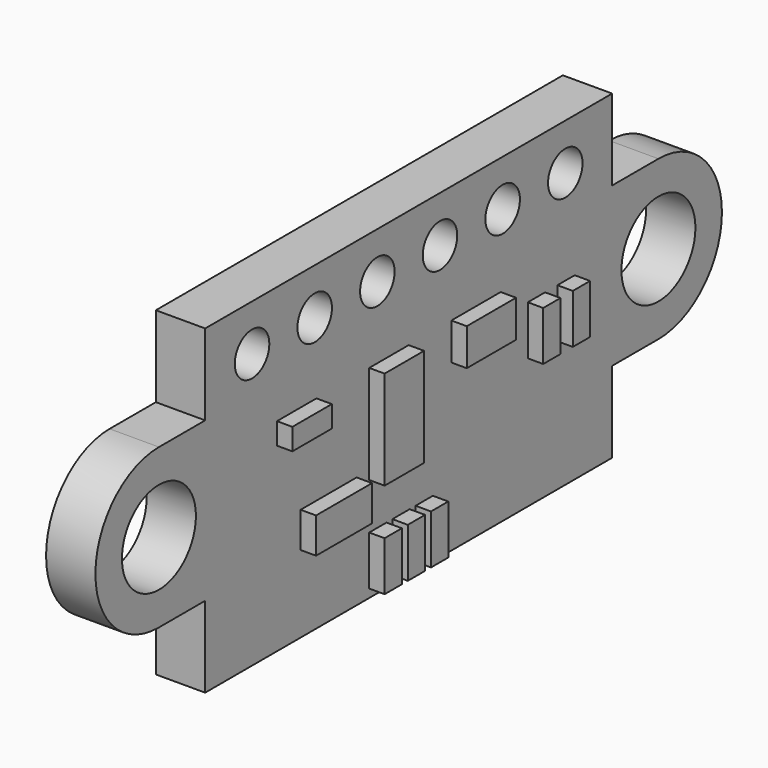
from build123d import *

# Parameters (mm, degrees)
PAD049_DEPTH            = 1.6
SKETCH125_R             = 1.5
POCKET062_DEPTH         = 1.6
SKETCH126_W             = 4.4
SKETCH126_H             = 2.35
PAD050_DEPTH            = 1
SKETCH127_W             = 2.27
SKETCH127_H             = 1.15
SKETCH127_W_2           = 1.6
SKETCH127_H_2           = 3.2
SKETCH127_W_3           = 2
SKETCH127_H_3           = 1.2
SKETCH127_W_4           = 0.7
SKETCH127_H_4           = 1.6
SKETCH127_H_5           = 0.7
PAD051_DEPTH            = 0.5
SKETCH128_R             = 0.7
POCKET063_DEPTH         = 1.6
BODY030_ROLL_ANGLE      = -180
BODY030_PLACEMENT_ANGLE = 90


with BuildPart() as part:
    # Sketch124 → Pad049 (new body)
    with BuildSketch(Plane.XZ):
        Polygon((-8.25, -5.2), (8.25, -5.2), (8.25, -2.575), (12.75, -2.575), (12.75, 2.575), (8.25, 2.575), (8.25, 5.2), (-8.25, 5.2), (-8.25, 2.575), (-12.75, 2.575), (-12.75, -2.575), (-8.25, -2.575), align=None)
    extrude(amount=PAD049_DEPTH)

    # Sketch125 (on Face14 of Pad049) → Pocket062 (cut)
    with BuildSketch(Plane.XZ.offset(1.6)):
        with Locations((-10.125, 0)):
            Circle(SKETCH125_R)
        with Locations((10.125, 0)):
            Circle(SKETCH125_R)
        with BuildLine():
            Line((-12.755, 2.575), (-12.755, -2.575))
            Line((-12.755, -2.575), (-10.125, -2.575))
            ThreePointArc((-10.125, 2.575), (-12.7, 0), (-10.125, -2.575))
            Line((-10.125, 2.575), (-12.755, 2.575))
        make_face()
        with BuildLine():
            Line((10.125, -2.575), (12.755, -2.575))
            Line((12.755, -2.575), (12.755, 2.575))
            Line((12.755, 2.575), (10.125, 2.575))
            ThreePointArc((10.125, -2.575), (12.7, 0), (10.125, 2.575))
        make_face()
    extrude(amount=-POCKET062_DEPTH, mode=Mode.SUBTRACT)

    # Sketch126 (on Face4 of Pocket062) → Pad050 (join)
    with BuildSketch(Plane.XZ.offset(1.6)):
        with Locations((0, 2.475)):
            Rectangle(SKETCH126_W, SKETCH126_H)
    extrude(amount=PAD050_DEPTH)

    # Sketch127 (on Face2 of Pad050) → Pad051 (join)
    with BuildSketch(Plane(origin=(0, 0, 0), x_dir=(1, 0, 0), z_dir=(0, 1, 0))):
        with Locations((-3.245, -2.125)):
            Rectangle(SKETCH127_W, SKETCH127_H)
        with Locations((-0.8, -0.23)):
            Rectangle(SKETCH127_W_2, SKETCH127_H_2)
        with Locations((2.73, 0.77)):
            Rectangle(SKETCH127_W_3, SKETCH127_H_3)
        with Locations((-1.25, -4.13)):
            Rectangle(SKETCH127_W_4, SKETCH127_H_4)
        with Locations((-0.31, -4.13)):
            Rectangle(SKETCH127_W_4, SKETCH127_H_4)
        with Locations((0.63, -4.13)):
            Rectangle(SKETCH127_W_4, SKETCH127_H_4)
        with Locations((-4.54, 1.02)):
            Rectangle(SKETCH127_W_2, SKETCH127_H_5)
        with Locations((5.18, -0.17)):
            Rectangle(SKETCH127_W_4, SKETCH127_H_4)
        with Locations((6.38, -0.17)):
            Rectangle(SKETCH127_W_4, SKETCH127_H_4)
    extrude(amount=PAD051_DEPTH)

    # Sketch128 (on Face2 of Pad051) → Pocket063 (cut)
    with BuildSketch(Plane(origin=(0, 0, 0), x_dir=(1, 0, 0), z_dir=(0, 1, 0))):
        with Locations((-6.35, 3.7)):
            Circle(SKETCH128_R)
        with Locations((-3.81, 3.7)):
            Circle(SKETCH128_R)
        with Locations((-1.27, 3.7)):
            Circle(SKETCH128_R)
        with Locations((1.27, 3.7)):
            Circle(SKETCH128_R)
        with Locations((3.81, 3.7)):
            Circle(SKETCH128_R)
        with Locations((6.35, 3.7)):
            Circle(SKETCH128_R)
    extrude(amount=-POCKET063_DEPTH, mode=Mode.SUBTRACT)


with BuildPart() as part_1:
    # Body030 roll: moved
    add(part.part.rotate(Axis((0, 0, 0), (1, 0, 0)), BODY030_ROLL_ANGLE))


with BuildPart() as part_2:
    # Body030 placement: moved
    add(part_1.part.moved(Location((17.5, -0.75, 41))).rotate(Axis((17.5, -0.75, 41), (0, 0, 1)), BODY030_PLACEMENT_ANGLE))


solid = part_2.part
